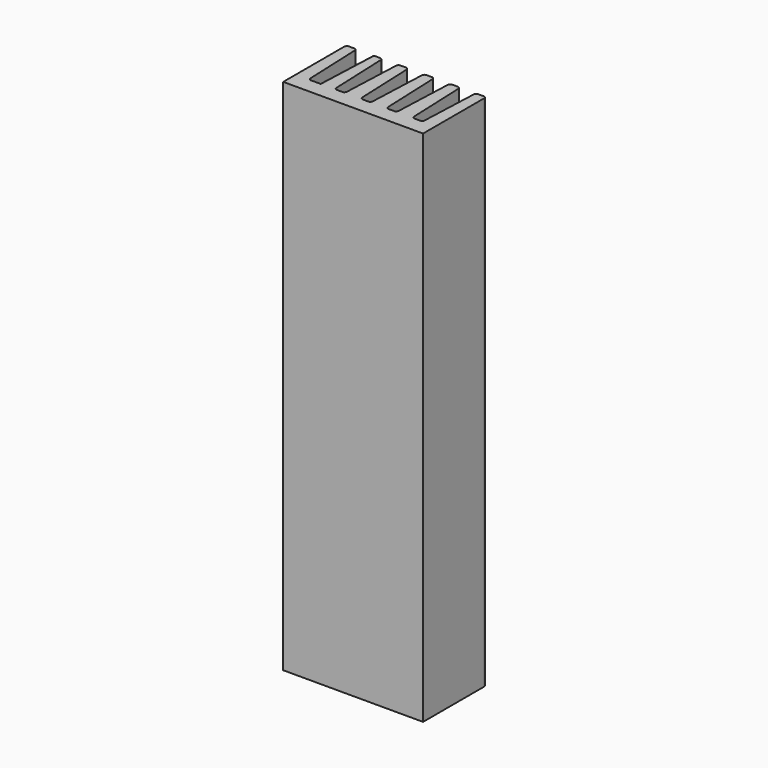
from build123d import *

# Parameters (mm, degrees)
F1_DEPTH = 100
F2_R     = 0.5


with BuildPart() as f1:
    # F0 (on Top) → F1 (new body)
    with BuildSketch(Plane.XY):
        Polygon((-36.73992, 8.346775), (-38.73992, 8.346775), (-38.73992, -6.87493), (-11.73992, -6.87493), (-11.73992, 8.346775), (-13.73992, 8.346775), (-14.23992, -3.87493), (-16.23992, -3.87493), (-16.73992, 8.346775), (-18.73992, 8.346775), (-19.23992, -3.87493), (-21.23992, -3.87493), (-21.73992, 8.346775), (-23.73992, 8.346775), (-24.23992, -3.87493), (-26.23992, -3.87493), (-26.73992, 8.346775), (-28.73992, 8.346775), (-29.23992, -3.87493), (-31.23992, -3.87493), (-31.73992, 8.346775), (-33.73992, 8.346775), (-34.23992, -3.87493), (-36.23992, -3.87493), align=None)
    extrude(amount=F1_DEPTH)

    # F2
    f2_edges = [f1.edges().sort_by_distance(p)[0] for p in [
        (-13.73992, 8.346775, 50),
        (-11.73992, 8.346775, 50),
        (-18.73992, 8.346775, 50),
        (-16.73992, 8.346775, 50),
        (-23.73992, 8.346775, 50),
        (-21.73992, 8.346775, 50),
        (-28.73992, 8.346775, 50),
        (-26.73992, 8.346775, 50),
        (-33.73992, 8.346775, 50),
        (-31.73992, 8.346775, 50),
        (-38.73992, 8.346775, 50),
        (-36.73992, 8.346775, 50),
        (-36.23992, -3.87493, 50),
        (-33.98992, 2.235922, 100),
        (-31.23992, -3.87493, 50),
        (-26.23992, -3.87493, 50),
        (-24.23992, -3.87493, 50),
        (-29.23992, -3.87493, 50),
        (-21.23992, -3.87493, 50),
        (-19.23992, -3.87493, 50),
        (-16.23992, -3.87493, 50),
        (-14.23992, -3.87493, 50),
    ]]
    fillet(f2_edges, radius=F2_R)


solid = f1.part
